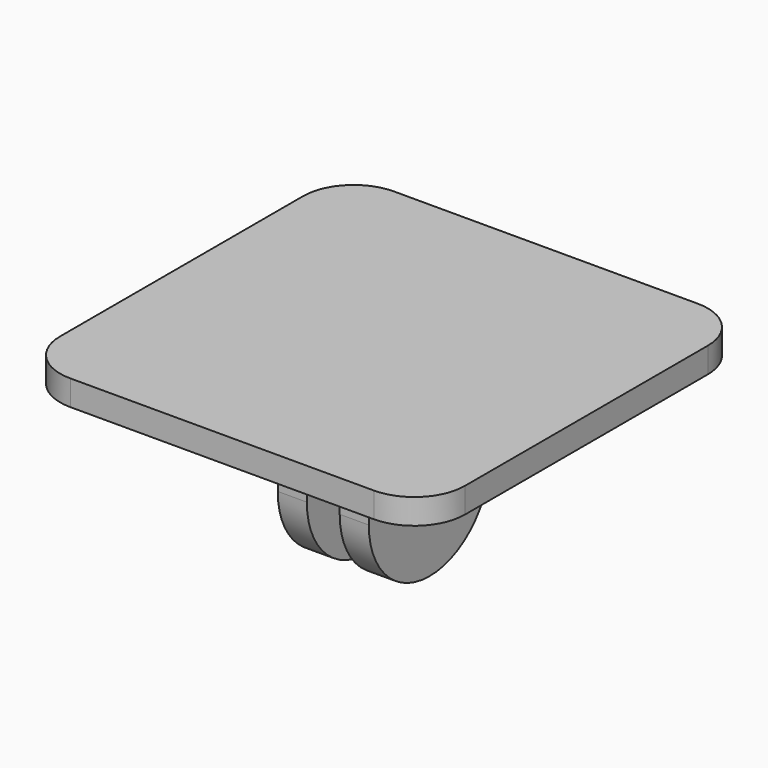
from build123d import *

# Parameters (mm, degrees)
F0_R     = 2.5
F1_DEPTH = 4.5
F2_DEPTH = 20
F3_W     = 3.25
F3_H     = 20
F4_DEPTH = 25
F5_R     = 1.5
F6_R     = 5


with BuildPart() as f1:
    # F0 (on Right) → F1 (new body, symmetric)
    with BuildSketch(Plane.YZ):
        with BuildLine():
            Line((-7.5, 9), (-7.5, 0))
            ThreePointArc((-7.5, 0), (0, -7.5), (7.5, 0))
            Line((7.5, 0), (7.5, 9))
            Line((7.5, 9), (-7.5, 9))
        make_face()
        Circle(F0_R, mode=Mode.SUBTRACT)
        Polygon((-20, 9), (-7.5, 9), (7.5, 9), (20, 9), (20, 11.5), (-20, 11.5), align=None)
    extrude(amount=F1_DEPTH, both=True)

    # F0 (on Right) → F2 (join, symmetric)
    with BuildSketch(Plane.YZ):
        Polygon((-20, 9), (-7.5, 9), (7.5, 9), (20, 9), (20, 11.5), (-20, 11.5), align=None)
    extrude(amount=F2_DEPTH, both=True)

    # F3 (on face) → F4 (cut)
    with BuildSketch(Plane(origin=(0, 0, 9), x_dir=(1, 0, 0), z_dir=(0, 0, -1))):
        Rectangle(F3_W, F3_H)
    extrude(amount=F4_DEPTH, mode=Mode.SUBTRACT)

    # F5
    f5_edges = [f1.edges().sort_by_distance(p)[0] for p in [
        (-4.5, 0, 9),
        (4.5, 0, 9),
        (-3.0625, 7.5, 9),
        (3.0625, 7.5, 9),
        (-3.0625, -7.5, 9),
        (3.0625, -7.5, 9),
    ]]
    fillet(f5_edges, radius=F5_R)

    # F6
    f6_edges = [f1.edges().sort_by_distance(p)[0] for p in [
        (20, -20, 10.25),
        (-20, -20, 10.25),
        (20, 20, 10.25),
        (-20, 20, 10.25),
    ]]
    fillet(f6_edges, radius=F6_R)


solid = f1.part
